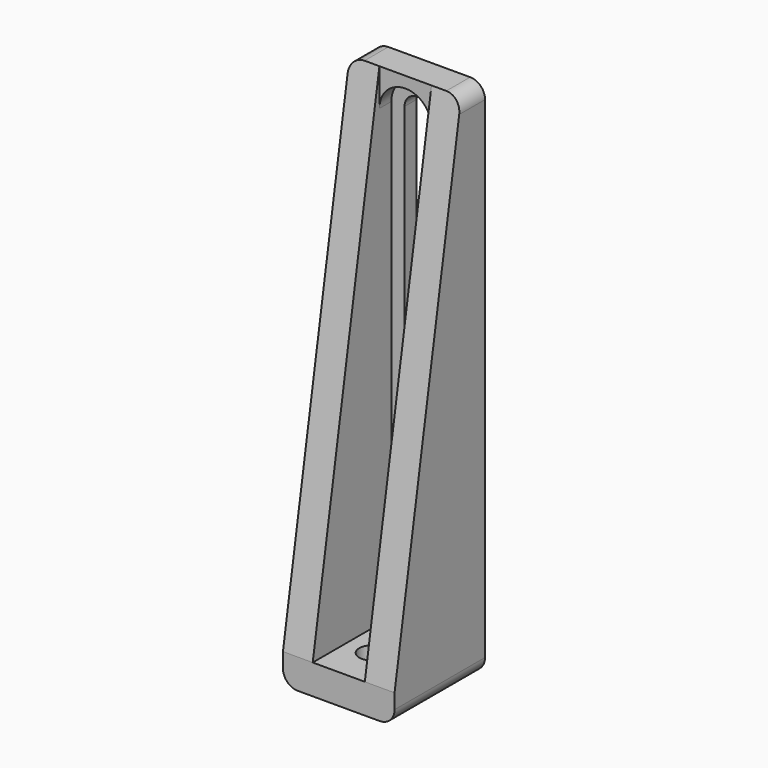
from build123d import *

# Parameters (mm, degrees)
F0_W     = 15
F0_H     = 15.2
F0_R     = 1.725
F1_DEPTH = 4
F3_DEPTH = 66
F5_DEPTH = 2
F6_DEPTH = 4
F7_SIZE2 = 11.2
F7_SIZE  = 66
F8_R     = 2


with BuildPart() as f1:
    # F0 (on Top) → F1 (new body)
    with BuildSketch(Plane.XY):
        Rectangle(F0_W, F0_H)
        with Locations((0, -2)):
            Circle(F0_R, mode=Mode.SUBTRACT)
    extrude(amount=F1_DEPTH)

    # F2 (on face) → F3 (join)
    with BuildSketch(Plane.XY.offset(4)):
        Polygon((-7.5, 7.6), (-7.5, -7.6), (-3.5, -7.6), (-3.5, -2), (-3.5, 3.6), (3.5, 3.6), (3.5, -2), (3.5, -7.6), (7.5, -7.6), (7.5, 7.6), align=None)
    extrude(amount=F3_DEPTH)

    # F4 (on face) → F5 (cut)
    with BuildSketch(Plane.XZ.offset(-3.6)):
        with BuildLine():
            Line((-1.725, 13.045385854), (-1.725, 61.954614146))
            ThreePointArc((-1.725, 61.954614146), (-3.0238634228, 63.2375443268), (-3.5, 65))
            Line((-3.5, 65), (-3.5, 10.0000000135))
            ThreePointArc((-3.5, 10.0000000135), (-3.0238634194, 11.762455679), (-1.725, 13.045385854))
        make_face()
        with BuildLine():
            ThreePointArc((3.5, 65), (3.0238634228, 63.2375443268), (1.725, 61.954614146))
            Line((1.725, 61.954614146), (1.725, 13.045385854))
            ThreePointArc((1.725, 13.045385854), (3.0238634228, 11.7624556732), (3.5, 10))
            Line((3.5, 10), (3.5, 65))
        make_face()
        with BuildLine():
            ThreePointArc((-1.725, 65), (0, 66.725), (1.725, 65))
            Line((1.725, 65), (1.725, 61.954614146))
            ThreePointArc((1.725, 61.954614146), (3.0238634228, 63.2375443268), (3.5, 65))
            ThreePointArc((3.5, 65), (0, 68.5), (-3.5, 65))
            ThreePointArc((-3.5, 65), (-3.0238634228, 63.2375443268), (-1.725, 61.954614146))
            Line((-1.725, 61.954614146), (-1.725, 65))
        make_face()
        with BuildLine():
            ThreePointArc((3.5, 10), (3.0238634228, 11.7624556732), (1.725, 13.045385854))
            Line((1.725, 13.045385854), (1.725, 10))
            ThreePointArc((1.725, 10), (0, 8.275), (-1.725, 10))
            Line((-1.725, 10), (-1.725, 13.045385854))
            ThreePointArc((-1.725, 13.045385854), (-3.0238634194, 11.762455679), (-3.5, 10.0000000135))
            ThreePointArc((-3.5, 10.0000000135), (-6.7e-09, 6.5), (3.5, 10))
        make_face()
    extrude(amount=-F5_DEPTH, mode=Mode.SUBTRACT)

    # F4 (on face) → F6 (cut, through all)
    with BuildSketch(Plane.XZ.offset(-3.6)):
        with BuildLine():
            ThreePointArc((-1.725, 65), (0, 63.275), (1.725, 65))
            ThreePointArc((1.725, 65), (0, 66.725), (-1.725, 65))
        make_face()
        with BuildLine():
            Line((1.725, 61.954614146), (1.725, 65))
            ThreePointArc((1.725, 65), (0, 63.275), (-1.725, 65))
            Line((-1.725, 65), (-1.725, 61.954614146))
            ThreePointArc((-1.725, 61.954614146), (0, 61.5), (1.725, 61.954614146))
        make_face()
        with BuildLine():
            Line((1.725, 13.045385854), (1.725, 61.954614146))
            ThreePointArc((1.725, 61.954614146), (0, 61.5), (-1.725, 61.954614146))
            Line((-1.725, 61.954614146), (-1.725, 13.045385854))
            ThreePointArc((-1.725, 13.045385854), (0, 13.5), (1.725, 13.045385854))
        make_face()
        with BuildLine():
            Line((1.725, 10), (1.725, 13.045385854))
            ThreePointArc((1.725, 13.045385854), (0, 13.5), (-1.725, 13.045385854))
            Line((-1.725, 13.045385854), (-1.725, 10))
            ThreePointArc((-1.725, 10), (0, 11.725), (1.725, 10))
        make_face()
        with BuildLine():
            ThreePointArc((-1.725, 10), (0, 8.275), (1.725, 10))
            ThreePointArc((1.725, 10), (0, 11.725), (-1.725, 10))
        make_face()
    extrude(amount=-F6_DEPTH, mode=Mode.SUBTRACT)

    # F7
    f7_edges = [f1.edges().sort_by_distance(p)[0] for p in [
        (5.5, -7.6, 70),
        (-5.5, -7.6, 70),
    ]]
    f7_side = f1.faces().sort_by_distance((-6.784109, -7.6, 35))[0]
    chamfer(f7_edges, length=F7_SIZE, length2=F7_SIZE2, reference=f7_side)

    # F8
    f8_edges = [f1.edges().sort_by_distance(p)[0] for p in [
        (-7.5, 5.6, 70),
        (7.5, 5.6, 70),
        (-7.5, 0, 0),
        (7.5, 0, 0),
    ]]
    fillet(f8_edges, radius=F8_R)


solid = f1.part
